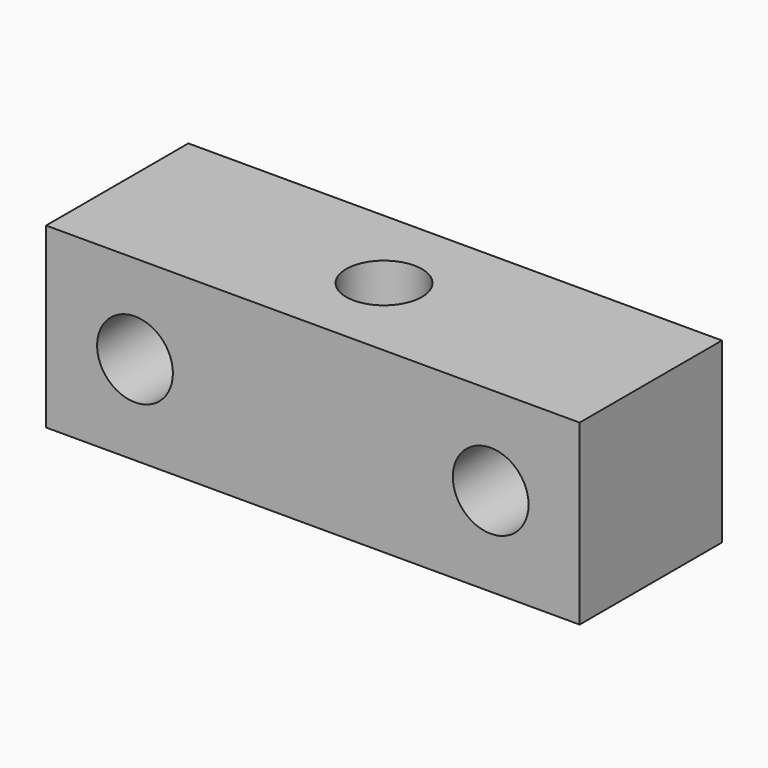
from build123d import *

# Parameters (mm, degrees)
F0_W     = 19.05
F0_H     = 6.35
F0_R     = 1.35255
F1_DEPTH = 6.35
F2_R     = 1.35255
F3_DEPTH = 6.35


with BuildPart() as f1:
    # F0 (on Top) → F1 (new body)
    with BuildSketch(Plane.XY):
        Rectangle(F0_W, F0_H)
        Circle(F0_R, mode=Mode.SUBTRACT)
    extrude(amount=F1_DEPTH)

    # F2 (on face) → F3 (cut, through all)
    with BuildSketch(Plane.XZ.offset(3.175)):
        with Locations((-6.35, 3.175)):
            Circle(F2_R)
        with Locations((6.35, 3.175)):
            Circle(F2_R)
    extrude(amount=-F3_DEPTH, mode=Mode.SUBTRACT)


solid = f1.part
